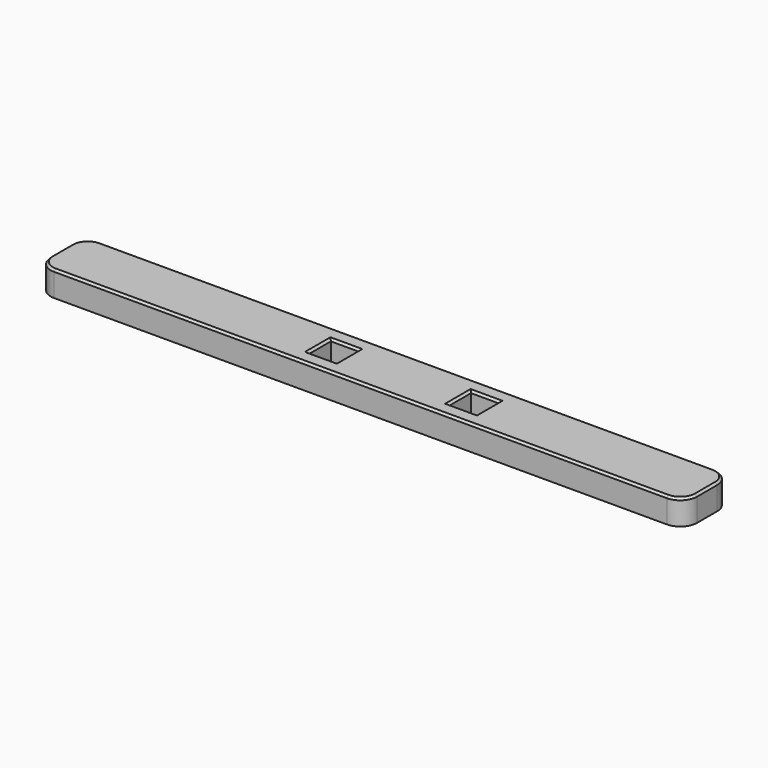
from build123d import *

# Parameters (mm, degrees)
PAD005_DEPTH    = 3
SKETCH009_W     = 3.3
SKETCH009_H     = 3.3
POCKET003_DEPTH = 3.001
CHAMFER001_SIZE = 0.25
CHAMFER004_SIZE = 0.25
CHAMFER007_SIZE = 0.25


with BuildPart() as part:
    # Sketch008 → Pad005 (new body)
    with BuildSketch(Plane.XY):
        with BuildLine():
            Line((-36.502214, 3.5), (36.502214, 3.5))
            ThreePointArc((38.502214, 1.5), (37.916428, 2.914214), (36.502214, 3.5))
            Line((38.502214, 1.5), (38.502214, -1.5))
            ThreePointArc((36.502214, -3.5), (37.916428, -2.914214), (38.502214, -1.5))
            Line((36.502214, -3.5), (-36.502214, -3.5))
            ThreePointArc((-38.502214, -1.5), (-37.916428, -2.914214), (-36.502214, -3.5))
            Line((-38.502214, -1.5), (-38.502214, 1.5))
            ThreePointArc((-36.502214, 3.5), (-37.916428, 2.914214), (-38.502214, 1.5))
        make_face()
    extrude(amount=PAD005_DEPTH)

    # Sketch009 → Pocket003 (cut, through all)
    with BuildSketch(Plane.XY.offset(3)):
        with Locations((-6, 0)):
            Rectangle(SKETCH009_W, SKETCH009_H)
        with Locations((10.7, 0)):
            Rectangle(SKETCH009_W, SKETCH009_H)
    extrude(amount=-POCKET003_DEPTH, mode=Mode.SUBTRACT)

    # Chamfer001
    chamfer001_edges = [part.edges().sort_by_distance(p)[0] for p in [
        (0, -3.5, 3),
        (0, 3.5, 3),
    ]]
    chamfer(chamfer001_edges, length=CHAMFER001_SIZE)

    # Chamfer004
    chamfer004_edges = [part.edges().sort_by_distance(p)[0] for p in [
        (-7.65, 0, 0),
        (-6, 1.65, 0),
        (-4.35, 0, 0),
        (-6, -1.65, 0),
        (9.05, 0, 0),
        (10.7, -1.65, 0),
        (12.35, 0, 0),
        (10.7, 1.65, 0),
    ]]
    chamfer(chamfer004_edges, length=CHAMFER004_SIZE)

    # Chamfer007
    chamfer007_edges = [part.edges().sort_by_distance(p)[0] for p in [
        (9.05, 0, 3),
        (10.7, 1.65, 3),
        (12.35, 0, 3),
        (10.7, -1.65, 3),
        (-4.35, 0, 3),
        (-6, -1.65, 3),
        (-7.65, 0, 3),
        (-6, 1.65, 3),
    ]]
    chamfer(chamfer007_edges, length=CHAMFER007_SIZE)


solid = part.part
